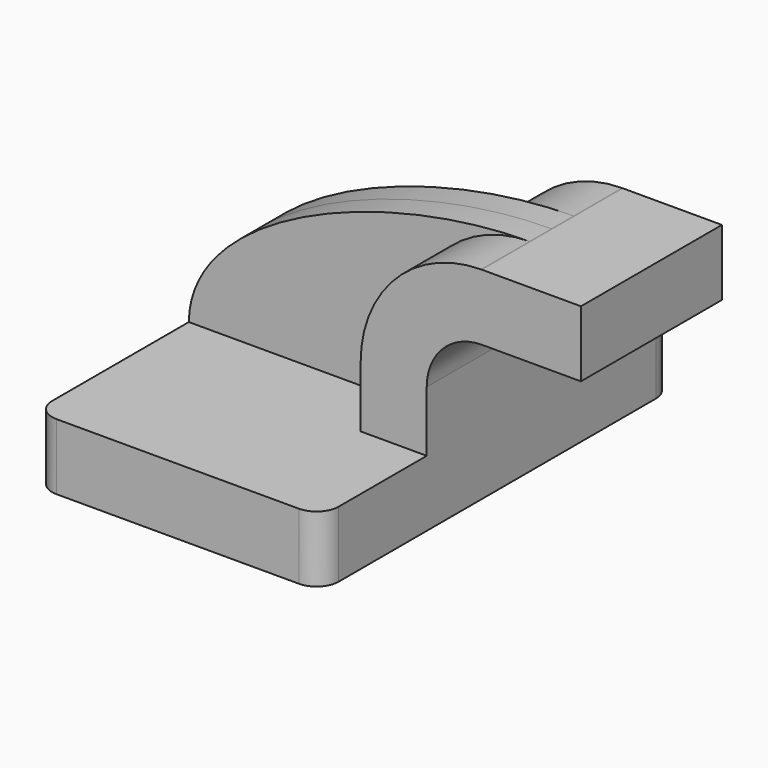
from build123d import *

# Parameters (mm, degrees)
F1_DEPTH = 63.5
F0_W     = 25.4
F0_H     = 19.05
F2_DEPTH = 25.4
F3_DEPTH = 7.9375
F4_R     = 6.35


with BuildPart() as f1:
    # F0 (on Front) → F1 (new body, symmetric)
    with BuildSketch(Plane.XZ):
        Polygon((41.275, -9.525), (41.275, 9.525), (22.225, 9.525), (-41.275, 9.525), (-41.275, -9.525), align=None)
    extrude(amount=F1_DEPTH, both=True)

    # F0 (on Front) → F2 (join, symmetric)
    with BuildSketch(Plane.XZ):
        with BuildLine():
            Line((22.225, 9.525), (41.275, 9.525))
            Line((41.275, 9.525), (41.275, 27.0002))
            ThreePointArc((41.275, 27.0002), (45.9246798487, 38.2255201513), (57.15, 42.8752))
            Line((57.15, 42.8752), (60.325, 42.8752))
            Line((60.325, 42.8752), (60.325, 61.9252))
            Line((60.325, 61.9252), (57.15, 61.9252))
            ThreePointArc((57.15, 61.9252), (57.0484918683, 61.925052485), (56.9469845941, 61.9246099413))
            ThreePointArc((56.9469845941, 61.9246099413), (32.3826228876, 51.6240229358), (22.225, 27.0002))
            Line((22.225, 27.0002), (22.225, 9.525))
        make_face()
        with Locations((73.025, 52.4002)):
            Rectangle(F0_W, F0_H)
    extrude(amount=F2_DEPTH, both=True)

    # F0 (on Front) → F3 (join, symmetric)
    with BuildSketch(Plane.XZ):
        with BuildLine():
            Line((-41.275, 9.525), (22.225, 9.525))
            Line((22.225, 9.525), (22.225, 27.0002))
            ThreePointArc((22.225, 27.0002), (32.3826228876, 51.6240229358), (56.9469845941, 61.9246099413))
            add(Edge.make_bspline(
                [(-41.275, 9.525), (-40.930863954, 39.584786099), (13.8540179611, 61.7648086868), (56.9469845941, 61.9246099413)],
                knots=[0, 0, 0, 0, 111.3296329326, 111.3296329326, 111.3296329326, 111.3296329326], degree=3))
        make_face()
    extrude(amount=F3_DEPTH, both=True)

    # F4
    f4_edges = [f1.edges().sort_by_distance(p)[0] for p in [
        (-41.275, -63.5, 0),
        (41.275, -63.5, 0),
        (41.275, 63.5, 0),
        (-41.275, 63.5, 0),
    ]]
    fillet(f4_edges, radius=F4_R)


solid = f1.part
